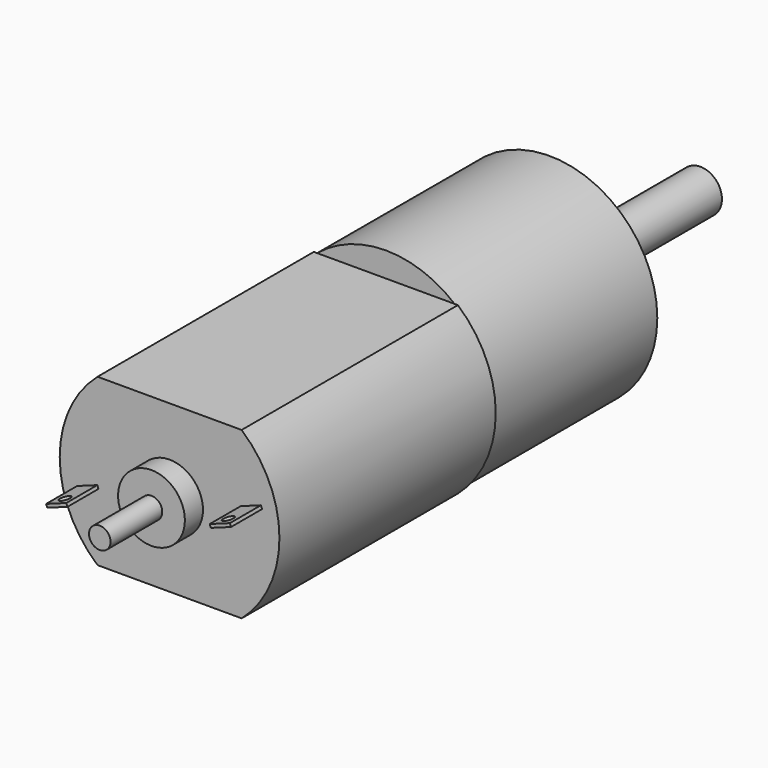
from build123d import *

# Parameters (mm, degrees)
SKETCH_R              = 10
PAD_DEPTH             = 19
SKETCH001_R           = 3.5
PAD001_DEPTH          = 3
SKETCH002_R           = 2
PAD002_DEPTH          = 14.5
SKETCH003_W           = 10
SKETCH003_H           = 5
POCKET_DEPTH          = 14.5
PAD003_DEPTH          = 25.1
SKETCH005_R           = 3.1
PAD004_DEPTH          = 2.1
SKETCH006_R           = 1
PAD005_DEPTH          = 6
PAD006_DEPTH          = 3.6
SKETCH009_R           = 0.5
POCKET001_DEPTH       = 5
POLARPATTERN_COUNT    = 2
POLARPATTERN001_COUNT = 2
SKETCH010_R           = 1.25
POCKET002_DEPTH       = 5


with BuildPart() as part:
    # Sketch → Pad (new body)
    with BuildSketch(Plane.XZ):
        Circle(SKETCH_R)
    extrude(amount=PAD_DEPTH)

    # Sketch001 (on Face2 of Pad) → Pad001 (join)
    with BuildSketch(Plane(origin=(0, 0, 0), x_dir=(1, 0, 0), z_dir=(0, 1, 0))):
        Circle(SKETCH001_R)
    extrude(amount=PAD001_DEPTH)

    # Sketch002 (on Face5 of Pad001) → Pad002 (join)
    with BuildSketch(Plane(origin=(0, 3, 0), x_dir=(1, 0, 0), z_dir=(0, 1, 0))):
        Circle(SKETCH002_R)
    extrude(amount=PAD002_DEPTH)

    # Sketch003 (on Face7 of Pad002) → Pocket (cut)
    with BuildSketch(Plane(origin=(0, 17.5, 0), x_dir=(1, 0, 0), z_dir=(0, 1, 0))):
        with Locations((0, 4)):
            Rectangle(SKETCH003_W, SKETCH003_H)
    extrude(amount=-POCKET_DEPTH, mode=Mode.SUBTRACT)

    # Sketch004 (on Face3 of Pocket) → Pad003 (join)
    with BuildSketch(Plane.XZ.offset(19)):
        with BuildLine():
            Line((-6.689544, 7.7), (6.689544, 7.7))
            ThreePointArc((6.689544, -7.7), (10.2, 0), (6.689544, 7.7))
            Line((6.689544, -7.7), (-6.689544, -7.7))
            ThreePointArc((-6.689544, 7.7), (-10.2, 0), (-6.689544, -7.7))
        make_face()
    extrude(amount=PAD003_DEPTH)

    # Sketch005 (on Face14 of Pad003) → Pad004 (join)
    with BuildSketch(Plane.XZ.offset(44.1)):
        Circle(SKETCH005_R)
    extrude(amount=PAD004_DEPTH)

    # Sketch006 (on Face21 of Pad004) → Pad005 (join)
    with BuildSketch(Plane.XZ.offset(46.2)):
        Circle(SKETCH006_R)
    extrude(amount=PAD005_DEPTH)

    # Sketch008 (on Face14 of Pad005) → Pad006 (join)
    with BuildSketch(Plane.XZ.offset(44.1)):
        Polygon((6.603759, 1.445812), (8.483144, 2.129852), (8.58575, 1.847944), (6.706365, 1.163904), align=None)
    pad006 = extrude(amount=PAD006_DEPTH)

    # Sketch009 (on Face21 of Pad006) → Pocket001 (cut)
    with BuildSketch(Plane(origin=(0.410424, 0, -1.127631), x_dir=(0.939693, 0, 0.34202), z_dir=(0.34202, 0, -0.939693))):
        with Locations((7.689708, 46.695641)):
            Circle(SKETCH009_R)
    pocket001 = extrude(amount=-POCKET001_DEPTH, mode=Mode.SUBTRACT)

    # PolarPattern: Pad006 ×2 about axis
    polarpattern_axis = Axis((0, -44.1, 0), (0, -1, 0))
    for i in range(1, POLARPATTERN_COUNT):
        add(pad006.rotate(polarpattern_axis, i * 360 / POLARPATTERN_COUNT))

    # PolarPattern001: Pocket001 ×2 about axis
    polarpattern001_axis = Axis((0, 0, 0), (0, 1, 0))
    for i in range(1, POLARPATTERN001_COUNT):
        add(pocket001.rotate(polarpattern001_axis, i * 360 / POLARPATTERN001_COUNT), mode=Mode.SUBTRACT)

    # Sketch010 (on Face2 of PolarPattern001) → Pocket002 (cut)
    with BuildSketch(Plane(origin=(0, 0, 0), x_dir=(1, 0, 0), z_dir=(0, 1, 0))):
        with Locations((7.5, 0)):
            Circle(SKETCH010_R)
        with Locations((-7.5, 0)):
            Circle(SKETCH010_R)
    extrude(amount=-POCKET002_DEPTH, mode=Mode.SUBTRACT)


solid = part.part
